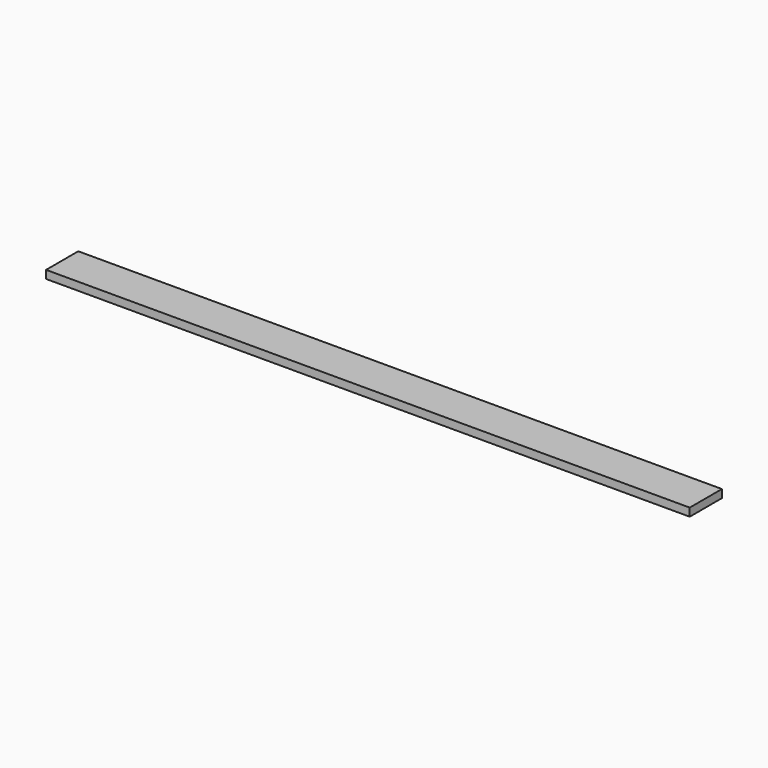
from build123d import *

# Parameters (mm, degrees)
F0_W     = 190.5
F0_H     = 38.1
F1_DEPTH = 3048


with BuildPart() as f1:
    # F0 (on Right) → F1 (new body)
    with BuildSketch(Plane.YZ):
        Rectangle(F0_W, F0_H)
        Rectangle(F0_W, F0_H)
    extrude(amount=F1_DEPTH)


solid = f1.part
